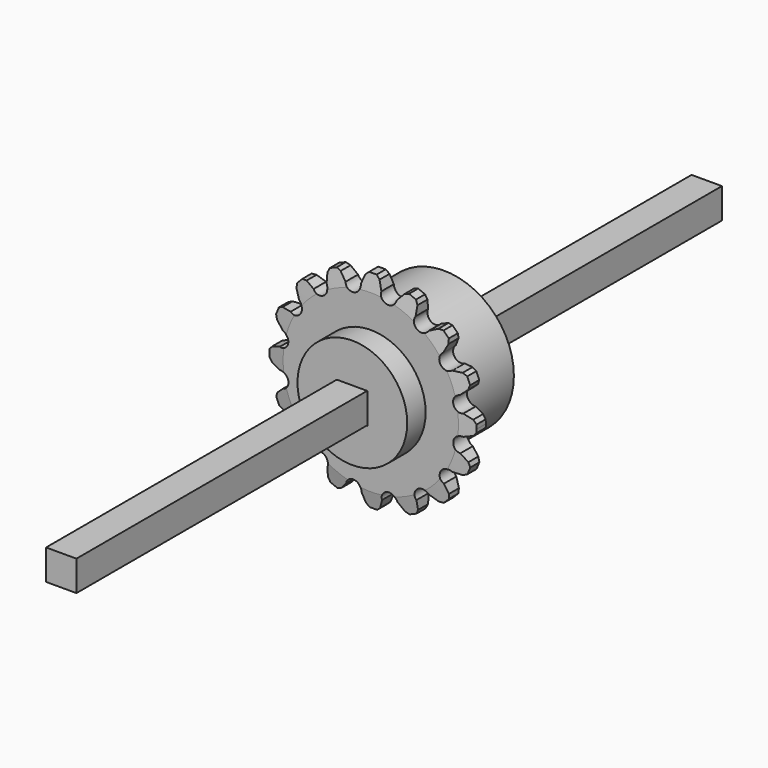
from build123d import *

# Parameters (mm, degrees)
F0_R      = 14.275
F1_DEPTH  = 4.5
F4_R      = 18.2
F4_R_2    = 14.275
F5_DEPTH  = 19.3
F6_DEPTH  = 10.5
F7_W      = 8
F7_H      = 8
F8_DEPTH  = 29.801
F9_W      = 7.9
F9_H      = 7.9
F10_DEPTH = 105


with BuildPart() as f1:
    # F0 (on Front) → F1 (new body)
    with BuildSketch(Plane.XZ):
        with BuildLine():
            ThreePointArc((26.9349679784, -0.9), (26.9462417326, -0.4500627628), (26.95, 0))
            ThreePointArc((26.95, 0), (26.9449238666, 0.5230466718), (26.9296973788, 1.0458963079))
            Line((26.9296973788, 1.0458963079), (26.1295191568, 1.9401640604))
            Line((26.1295191568, 1.9401640604), (23.8768217283, 2.7680253385))
            ThreePointArc((23.8768217283, 2.7680253385), (21.4667225742, 4.3354432466), (23.0202681907, 6.7545077041))
            Line((23.0202681907, 6.7545077041), (24.8125271634, 8.3506930864))
            Line((24.8125271634, 8.3506930864), (25.2290807133, 9.4760744174))
            ThreePointArc((25.2290807133, 9.4760744174), (24.8705278092, 10.3807199409), (24.479549036, 11.2718312175))
            Line((24.479549036, 11.2718312175), (23.3980593014, 11.7918119421))
            Line((23.3980593014, 11.7918119421), (21.0000294588, 11.6945860486))
            ThreePointArc((21.0000294588, 11.6945860486), (18.1735633139, 12.2203863562), (18.6831164222, 15.0498266652))
            Line((18.6831164222, 15.0498266652), (19.7281141032, 17.2103774854))
            Line((19.7281141032, 17.2103774854), (19.6822946117, 18.4095024055))
            ThreePointArc((19.6822946117, 18.4095024055), (19.0048420682, 19.1080736329), (18.3026112601, 19.7817320036))
            Line((18.3026112601, 19.7817320036), (17.1044570212, 19.8482633486))
            Line((17.1044570212, 19.8482633486), (14.92617307, 18.8407520446))
            ThreePointArc((14.92617307, 18.8407520446), (12.1136437829, 18.2448864212), (11.5016295412, 21.0539459435))
            Line((11.5016295412, 21.0539459435), (11.6402745066, 23.4499379246))
            Line((11.6402745066, 23.4499379246), (11.1390575759, 24.540250535))
            ThreePointArc((11.1390575759, 24.540250535), (10.2458414017, 24.9263963294), (9.3392668334, 25.280043414))
            Line((9.3392668334, 25.280043414), (8.2068562119, 24.8829965853))
            Line((8.2068562119, 24.8829965853), (6.5799421373, 23.1185843336))
            ThreePointArc((6.5799421373, 23.1185843336), (4.2095317964, 21.4917679188), (2.5691238252, 23.8527928064))
            Line((2.5691238252, 23.8527928064), (1.7803086357, 26.1194578891))
            Line((1.7803086357, 26.1194578891), (0.9, 26.9349679784))
            ThreePointArc((0.9, 26.9349679784), (-0.0729957394, 26.9499011431), (-1.0458963079, 26.9296973788))
            Line((-1.0458963079, 26.9296973788), (-1.9401640604, 26.1295191568))
            Line((-1.9401640604, 26.1295191568), (-2.7680253385, 23.8768217283))
            ThreePointArc((-2.7680253385, 23.8768217283), (-4.3354432466, 21.4667225742), (-6.7545077041, 23.0202681907))
            Line((-6.7545077041, 23.0202681907), (-8.3506930864, 24.8125271634))
            Line((-8.3506930864, 24.8125271634), (-9.4760744174, 25.2290807133))
            ThreePointArc((-9.4760744174, 25.2290807133), (-10.3807199409, 24.8705278092), (-11.2718312175, 24.479549036))
            Line((-11.2718312175, 24.479549036), (-11.7918119421, 23.3980593014))
            Line((-11.7918119421, 23.3980593014), (-11.6945860486, 21.0000294588))
            ThreePointArc((-11.6945860486, 21.0000294588), (-12.2203863562, 18.1735633139), (-15.0498266652, 18.6831164222))
            Line((-15.0498266652, 18.6831164222), (-17.2103774854, 19.7281141032))
            Line((-17.2103774854, 19.7281141032), (-18.4095024055, 19.6822946117))
            ThreePointArc((-18.4095024055, 19.6822946117), (-19.1080736329, 19.0048420682), (-19.7817320036, 18.3026112601))
            Line((-19.7817320036, 18.3026112601), (-19.8482633486, 17.1044570212))
            Line((-19.8482633486, 17.1044570212), (-18.8407520446, 14.92617307))
            ThreePointArc((-18.8407520446, 14.92617307), (-18.2448864212, 12.1136437829), (-21.0539459435, 11.5016295412))
            Line((-21.0539459435, 11.5016295412), (-23.4499379246, 11.6402745066))
            Line((-23.4499379246, 11.6402745066), (-24.540250535, 11.1390575759))
            ThreePointArc((-24.540250535, 11.1390575759), (-24.9263963294, 10.2458414017), (-25.280043414, 9.3392668334))
            Line((-25.280043414, 9.3392668334), (-24.8829965853, 8.2068562119))
            Line((-24.8829965853, 8.2068562119), (-23.1185843336, 6.5799421373))
            ThreePointArc((-23.1185843336, 6.5799421373), (-21.4917679188, 4.2095317964), (-23.8527928064, 2.5691238252))
            Line((-23.8527928064, 2.5691238252), (-26.1194578891, 1.7803086357))
            Line((-26.1194578891, 1.7803086357), (-26.9349679784, 0.9))
            ThreePointArc((-26.9349679784, 0.9), (-26.9499011431, -0.0729957394), (-26.9296973788, -1.0458963079))
            Line((-26.9296973788, -1.0458963079), (-26.1295191568, -1.9401640604))
            Line((-26.1295191568, -1.9401640604), (-23.8768217283, -2.7680253385))
            ThreePointArc((-23.8768217283, -2.7680253385), (-21.4667225742, -4.3354432466), (-23.0202681907, -6.7545077041))
            Line((-23.0202681907, -6.7545077041), (-24.8125271634, -8.3506930864))
            Line((-24.8125271634, -8.3506930864), (-25.2290807133, -9.4760744174))
            ThreePointArc((-25.2290807133, -9.4760744174), (-24.8705278092, -10.3807199409), (-24.479549036, -11.2718312175))
            Line((-24.479549036, -11.2718312175), (-23.3980593014, -11.7918119421))
            Line((-23.3980593014, -11.7918119421), (-21.0000294588, -11.6945860486))
            ThreePointArc((-21.0000294588, -11.6945860486), (-18.1735633139, -12.2203863562), (-18.6831164222, -15.0498266652))
            Line((-18.6831164222, -15.0498266652), (-19.7281141032, -17.2103774854))
            Line((-19.7281141032, -17.2103774854), (-19.6822946117, -18.4095024055))
            ThreePointArc((-19.6822946117, -18.4095024055), (-19.0048420682, -19.1080736329), (-18.3026112601, -19.7817320036))
            Line((-18.3026112601, -19.7817320036), (-17.1044570212, -19.8482633486))
            Line((-17.1044570212, -19.8482633486), (-14.92617307, -18.8407520446))
            ThreePointArc((-14.92617307, -18.8407520446), (-12.1136437829, -18.2448864212), (-11.5016295412, -21.0539459435))
            Line((-11.5016295412, -21.0539459435), (-11.6402745066, -23.4499379246))
            Line((-11.6402745066, -23.4499379246), (-11.1390575759, -24.540250535))
            ThreePointArc((-11.1390575759, -24.540250535), (-10.2458414017, -24.9263963294), (-9.3392668334, -25.280043414))
            Line((-9.3392668334, -25.280043414), (-8.2068562119, -24.8829965853))
            Line((-8.2068562119, -24.8829965853), (-6.5799421373, -23.1185843336))
            ThreePointArc((-6.5799421373, -23.1185843336), (-4.2095317964, -21.4917679188), (-2.5691238252, -23.8527928064))
            Line((-2.5691238252, -23.8527928064), (-1.7803086357, -26.1194578891))
            Line((-1.7803086357, -26.1194578891), (-0.9, -26.9349679784))
            ThreePointArc((-0.9, -26.9349679784), (0.0729957394, -26.9499011431), (1.0458963079, -26.9296973788))
            Line((1.0458963079, -26.9296973788), (1.9401640604, -26.1295191568))
            Line((1.9401640604, -26.1295191568), (2.7680253385, -23.8768217283))
            ThreePointArc((2.7680253385, -23.8768217283), (4.3354432466, -21.4667225742), (6.7545077041, -23.0202681907))
            Line((6.7545077041, -23.0202681907), (8.3506930864, -24.8125271634))
            Line((8.3506930864, -24.8125271634), (9.4760744174, -25.2290807133))
            ThreePointArc((9.4760744174, -25.2290807133), (10.3807199409, -24.8705278092), (11.2718312175, -24.479549036))
            Line((11.2718312175, -24.479549036), (11.7918119421, -23.3980593014))
            Line((11.7918119421, -23.3980593014), (11.6945860486, -21.0000294588))
            ThreePointArc((11.6945860486, -21.0000294588), (12.2203863562, -18.1735633139), (15.0498266652, -18.6831164222))
            Line((15.0498266652, -18.6831164222), (17.2103774854, -19.7281141032))
            Line((17.2103774854, -19.7281141032), (18.4095024055, -19.6822946117))
            ThreePointArc((18.4095024055, -19.6822946117), (19.1080736329, -19.0048420682), (19.7817320036, -18.3026112601))
            Line((19.7817320036, -18.3026112601), (19.8482633486, -17.1044570212))
            Line((19.8482633486, -17.1044570212), (18.8407520446, -14.92617307))
            ThreePointArc((18.8407520446, -14.92617307), (18.2448864212, -12.1136437829), (21.0539459435, -11.5016295412))
            Line((21.0539459435, -11.5016295412), (23.4499379246, -11.6402745066))
            Line((23.4499379246, -11.6402745066), (24.540250535, -11.1390575759))
            ThreePointArc((24.540250535, -11.1390575759), (24.9263963294, -10.2458414017), (25.280043414, -9.3392668334))
            Line((25.280043414, -9.3392668334), (24.8829965853, -8.2068562119))
            Line((24.8829965853, -8.2068562119), (23.1185843336, -6.5799421373))
            ThreePointArc((23.1185843336, -6.5799421373), (21.4917679188, -4.2095317964), (23.8527928064, -2.5691238252))
            Line((23.8527928064, -2.5691238252), (26.1194578891, -1.7803086357))
            Line((26.1194578891, -1.7803086357), (26.9349679784, -0.9))
        make_face()
        Circle(F0_R, mode=Mode.SUBTRACT)
    extrude(amount=F1_DEPTH)

    # F2 (on Right) → F3 (revolve, cut)
    with BuildSketch(Plane.YZ):
        Polygon((-7.8697471079, 36.6202626273), (-7.8697471079, 18.8181090343), (-5.25, 18.8181090343), (-2.25, 34.8181090343), (0.75, 18.8181090343), (3.3697471079, 18.8181090343), (3.3697471079, 36.6202626273), align=None)
    revolve(axis=Axis((0, 0, 0), (0, 1, 0)), mode=Mode.SUBTRACT)

    # F4 (on Front) → F5 (join)
    with BuildSketch(Plane.XZ):
        Circle(F4_R)
        Circle(F4_R_2, mode=Mode.SUBTRACT)
        Circle(F4_R)
        Circle(F4_R_2, mode=Mode.SUBTRACT)
        Circle(F4_R_2)
    extrude(amount=-F5_DEPTH)

    # F4 (on Front) → F6 (join)
    with BuildSketch(Plane.XZ):
        Circle(F4_R_2)
    extrude(amount=F6_DEPTH)

    # F7 (on face) → F8 (cut, through all)
    with BuildSketch(Plane(origin=(0, 19.3, 0), x_dir=(-1, 0, 0), z_dir=(0, 1, 0))):
        Rectangle(F7_W, F7_H)
        Rectangle(F7_W, F7_H)
    extrude(amount=-F8_DEPTH, mode=Mode.SUBTRACT)


with BuildPart() as f10:
    # F9 (on Front) → F10 (new body, symmetric)
    with BuildSketch(Plane.XZ):
        with Locations((-0.1643048599, -0.0025189947)):
            Rectangle(F9_W, F9_H)
        with Locations((-0.1643048599, -0.0025189947)):
            Rectangle(F9_W, F9_H)
    extrude(amount=F10_DEPTH, both=True)


solid = Compound([f1.part, f10.part])
